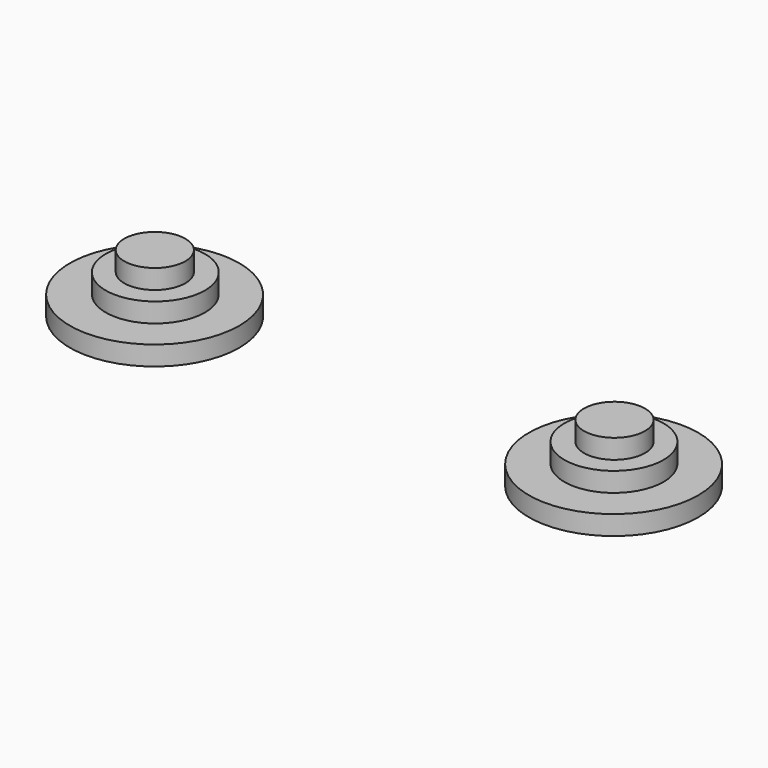
from build123d import *

# Parameters (mm, degrees)
F0_R     = 11.0998
F1_DEPTH = 2.54
F2_R     = 6.494404
F3_DEPTH = 5.08
F4_R     = 4.0005
F5_DEPTH = 7.62


with BuildPart() as f1:
    # F0 (on Top) → F1 (new body)
    with BuildSketch(Plane.XY):
        with Locations((-30.065172, -0.088068)):
            Circle(F0_R)
        with Locations((30.065172, -0.088068)):
            Circle(F0_R)
    extrude(amount=F1_DEPTH)


with BuildPart() as f3:
    # F2 (on Top) → F3 (new body)
    with BuildSketch(Plane.XY):
        with Locations((-30.038102, 0)):
            Circle(F2_R)
        with Locations((30.038102, 0)):
            Circle(F2_R)
    extrude(amount=F3_DEPTH)


with BuildPart() as f5:
    # F4 (on Top) → F5 (new body)
    with BuildSketch(Plane.XY):
        with Locations((-30.108766, 0)):
            Circle(F4_R)
        with Locations((30.108766, 0)):
            Circle(F4_R)
    extrude(amount=F5_DEPTH)


solid = Compound([f1.part, f3.part, f5.part])
